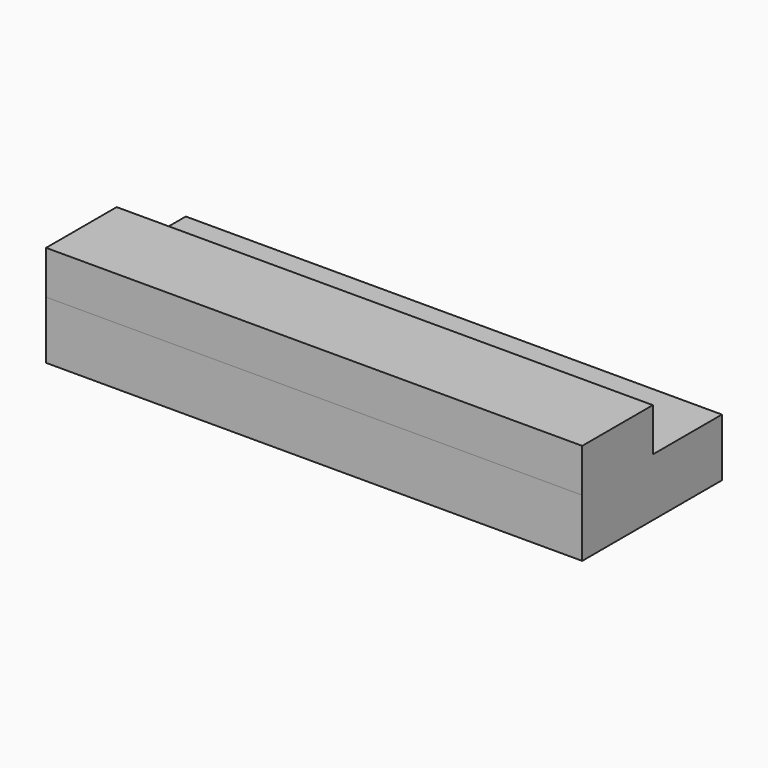
from build123d import *

# Parameters (mm, degrees)
SKETCH009_W  = 18.524504
SKETCH009_H  = 3.048411
PAD009_DEPTH = 1.5
SKETCH010_W  = 18.524504
SKETCH010_H  = 6.033741
PAD010_DEPTH = 2


with BuildPart() as body006:
    # Sketch009 (on ShapeBinder) → Pad009 (new body)
    with BuildSketch(Plane(origin=(0, 0, -2), x_dir=(1, 0, 0), z_dir=(0, 0, -1))):
        with Locations((29.487748, -19.360367)):
            Rectangle(SKETCH009_W, SKETCH009_H)
    extrude(amount=PAD009_DEPTH)

    # Sketch010 (on Face6 of Pad009) → Pad010 (join)
    with BuildSketch(Plane(origin=(0, 0, -3.5), x_dir=(1, 0, 0), z_dir=(0, 0, -1))):
        with Locations((29.487748, -17.867703)):
            Rectangle(SKETCH010_W, SKETCH010_H)
    extrude(amount=PAD010_DEPTH)


with BuildPart() as obj1:
    # Part__Mirroring: instance of Body006
    add(body006.part.mirror(Plane(origin=(0, 0, 0), x_dir=(1, 0, 0), z_dir=(0, 1, 0))))


solid = obj1.part
